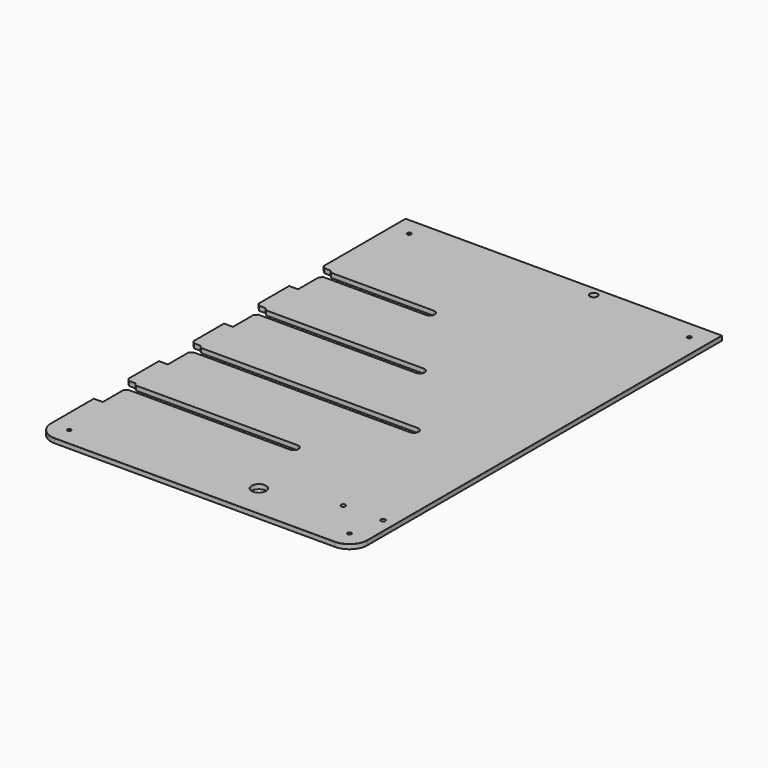
from build123d import *

# Parameters (mm, degrees)
SKETCH018_W              = 510
SKETCH018_H              = 350
PAD015_DEPTH             = 5
SKETCH019_R              = 8
SKETCH019_R_2            = 4.25
POCKET011_DEPTH          = 5.001
FILLET005_R              = 20
SKETCH020_R              = 2
POCKET012_DEPTH          = 5.001
CHAMFER009_SIZE          = 6
CHAMFER010_SIZE          = 0.1
CHAMFER011_SIZE          = 0.1
SKETCH052_W              = 45
SKETCH052_H              = 10
POCKET033_DEPTH          = 5.001
CHAMFER024_SIZE          = 2.99
SKETCH068_R              = 2.5
POCKET043_DEPTH          = 5.001
CLONE001_PLACEMENT_ANGLE = 90


with BuildPart() as part:
    # Sketch018 → Pad015 (new body)
    with BuildSketch(Plane.XY):
        with Locations((-20, 41.2)):
            Rectangle(SKETCH018_W, SKETCH018_H)
    extrude(amount=PAD015_DEPTH)

    # Sketch019 (on Face6 of Pad015) → Pocket011 (cut, through all)
    with BuildSketch(Plane.XY.offset(5)):
        with Locations((-238, 0)):
            Circle(SKETCH019_R)
        with Locations((225, 0)):
            Circle(SKETCH019_R_2)
        with BuildLine():
            ThreePointArc((-164.573184, 24.404903), (-159.323184, 19.154903), (-154.073184, 24.404903))
            Line((-154.073184, 24.404903), (-154.073184, 216.2))
            ThreePointArc((-154.073184, 216.2), (-159.323184, 221.45), (-164.573184, 216.2))
            Line((-164.573184, 24.404903), (-164.573184, 216.2))
        make_face()
        with BuildLine():
            ThreePointArc((-74.573184, -36.417713), (-69.323184, -41.667713), (-64.073184, -36.417713))
            Line((-64.073184, -36.417713), (-64.073184, 216.2))
            ThreePointArc((-64.073184, 216.2), (-69.323184, 221.45), (-74.573184, 216.2))
            Line((-74.573184, -36.417713), (-74.573184, 216.2))
        make_face()
        with BuildLine():
            ThreePointArc((15.426816, 28.977719), (20.676816, 23.727719), (25.926816, 28.977719))
            Line((25.926816, 28.977719), (25.926816, 216.2))
            ThreePointArc((25.926816, 216.2), (20.676816, 221.45), (15.426816, 216.2))
            Line((15.426816, 28.977719), (15.426816, 216.2))
        make_face()
        with BuildLine():
            ThreePointArc((105.426816, 89.800335), (110.676816, 84.550335), (115.926816, 89.800335))
            Line((115.926816, 89.800335), (115.926816, 216.2))
            ThreePointArc((115.926816, 216.2), (110.676816, 221.45), (105.426816, 216.2))
            Line((105.426816, 89.800335), (105.426816, 216.2))
        make_face()
    extrude(amount=-POCKET011_DEPTH, mode=Mode.SUBTRACT)

    # Fillet005
    fillet005_edges = [part.edges().sort_by_distance(p)[0] for p in [
        (-275, 216.2, 2.5),
        (-275, -133.8, 2.5),
    ]]
    fillet(fillet005_edges, radius=FILLET005_R)

    # Sketch020 (on Face5 of Fillet005) → Pocket012 (cut, through all)
    with BuildSketch(Plane.XY.offset(5)):
        with Locations((-255, 196.2)):
            Circle(SKETCH020_R)
        with Locations((-255, -113.8)):
            Circle(SKETCH020_R)
        with Locations((215, -113.8)):
            Circle(SKETCH020_R)
        with Locations((215, 196.2)):
            Circle(SKETCH020_R)
    extrude(amount=-POCKET012_DEPTH, mode=Mode.SUBTRACT)

    # Chamfer009
    chamfer009_edges = [part.edges().sort_by_distance(p)[0] for p in [
        (-164.573184, 216.2, 2.5),
        (-154.073184, 216.2, 2.5),
        (-74.573184, 216.2, 2.5),
        (-64.073184, 216.2, 2.5),
        (15.426816, 216.2, 2.5),
        (25.926816, 216.2, 2.5),
        (105.426816, 216.2, 2.5),
        (115.926816, 216.2, 2.5),
    ]]
    chamfer(chamfer009_edges, length=CHAMFER009_SIZE)

    # Chamfer010
    chamfer010_edges = [part.edges().sort_by_distance(p)[0] for p in [
        (-212.786592, 216.2, 5),
        (-114.323184, 216.2, 5),
        (-24.323184, 216.2, 5),
        (65.676816, 216.2, 5),
        (178.463408, 216.2, 5),
    ]]
    chamfer(chamfer010_edges, length=CHAMFER010_SIZE)

    # Chamfer011
    chamfer011_edges = [part.edges().sort_by_distance(p)[0] for p in [
        (-257, 196.2, 5),
        (-257, -113.8, 5),
        (213, -113.8, 5),
        (213, 196.2, 5),
    ]]
    chamfer(chamfer011_edges, length=CHAMFER011_SIZE)

    # Sketch052 (on Face1 of Chamfer011) → Pocket033 (cut, through all)
    with BuildSketch(Plane.XY.offset(5)):
        with Locations((-173.573184, 211.2)):
            Rectangle(SKETCH052_W, SKETCH052_H)
        with Locations((-83.573184, 211.2)):
            Rectangle(SKETCH052_W, SKETCH052_H)
        with Locations((6.426816, 211.2)):
            Rectangle(SKETCH052_W, SKETCH052_H)
        with Locations((96.426816, 211.2)):
            Rectangle(SKETCH052_W, SKETCH052_H)
    extrude(amount=-POCKET033_DEPTH, mode=Mode.SUBTRACT)

    # Chamfer024
    chamfer024_edges = [part.edges().sort_by_distance(p)[0] for p in [
        (-164.573184, 206.2, 2.5),
        (-154.073184, 206.2, 2.5),
        (-74.573184, 206.2, 2.5),
        (-64.073184, 206.2, 2.5),
        (15.426816, 206.2, 2.5),
        (25.926816, 206.2, 2.5),
        (105.426816, 206.2, 2.5),
        (115.926816, 206.2, 2.5),
    ]]
    chamfer(chamfer024_edges, length=CHAMFER024_SIZE)

    # Sketch068 (on Face1 of Chamfer024) → Pocket043 (cut, through all)
    with BuildSketch(Plane.XY.offset(5)):
        with Locations((-217.5, -77)):
            Circle(SKETCH068_R)
        with Locations((-217.5, -121)):
            Circle(SKETCH068_R)
    extrude(amount=-POCKET043_DEPTH, mode=Mode.SUBTRACT)


with BuildPart() as part_1:
    # Body011 placement: moved
    add(part.part.moved(Location((0, 0, 10.25))))


with BuildPart() as part_2:
    # Clone001 placement: moved
    add(part_1.part.moved(Location((216.2, 275, -15.25))).rotate(Axis((216.2, 275, -15.25), (0, 0, 1)), CLONE001_PLACEMENT_ANGLE))


solid = part_2.part
